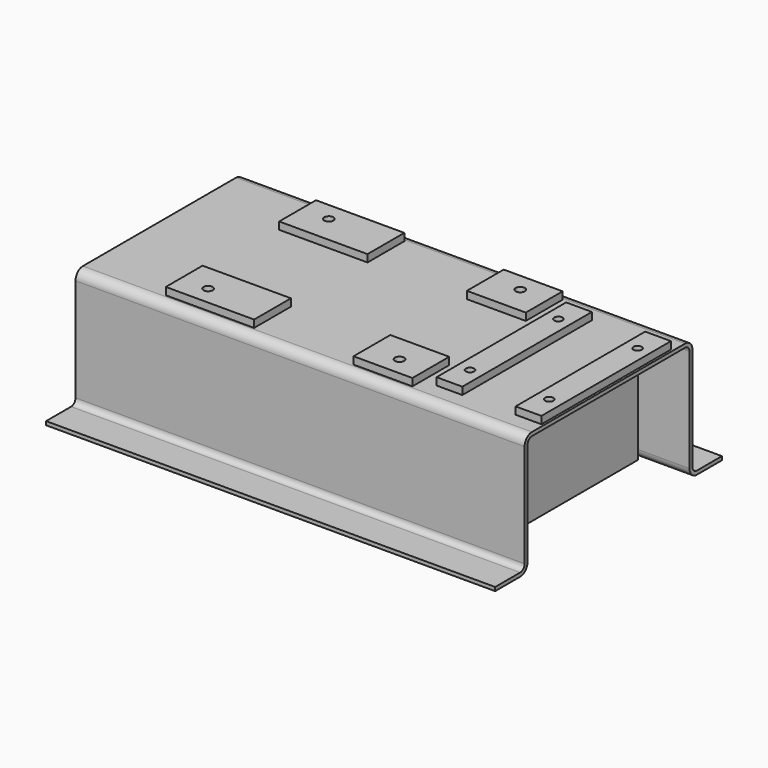
from build123d import *

# Parameters (mm, degrees)
F1_DEPTH = 774.7
F2_W     = 304.8
F2_H     = 158.75
F2_R     = 15.875
F2_W_2   = 203.2
F2_W_3   = 88.9
F2_H_2   = 558.8
F2_R_2   = 14.2875
F3_DEPTH = 25.4
F6_DEPTH = 12.7


with BuildPart() as f1:
    # F0 (on Right) → F1 (new body, symmetric)
    with BuildSketch(Plane.YZ):
        with BuildLine():
            Line((0, 209.55), (-330.2, 209.55))
            ThreePointArc((-330.2, 209.55), (-352.6506403027, 200.2506403027), (-361.95, 177.8))
            Line((-361.95, 177.8), (-361.95, -177.8))
            ThreePointArc((-361.95, -177.8), (-367.5296158184, -191.2703841816), (-381, -196.85))
            Line((-381, -196.85), (-488.95, -196.85))
            Line((-488.95, -196.85), (-488.95, -209.55))
            Line((-488.95, -209.55), (-381, -209.55))
            ThreePointArc((-381, -209.55), (-358.5493596973, -200.2506403027), (-349.25, -177.8))
            Line((-349.25, -177.8), (-349.25, 177.8))
            ThreePointArc((-349.25, 177.8), (-343.6703841816, 191.2703841816), (-330.2, 196.85))
            Line((-330.2, 196.85), (0, 196.85))
            Line((0, 196.85), (330.2, 196.85))
            ThreePointArc((330.2, 196.85), (343.6703841816, 191.2703841816), (349.25, 177.8))
            Line((349.25, 177.8), (349.25, -177.8))
            ThreePointArc((349.25, -177.8), (358.5493596973, -200.2506403027), (381, -209.55))
            Line((381, -209.55), (488.95, -209.55))
            Line((488.95, -209.55), (488.95, -196.85))
            Line((488.95, -196.85), (381, -196.85))
            ThreePointArc((381, -196.85), (367.5296158184, -191.2703841816), (361.95, -177.8))
            Line((361.95, -177.8), (361.95, 177.8))
            ThreePointArc((361.95, 177.8), (352.6506403027, 200.2506403027), (330.2, 209.55))
            Line((330.2, 209.55), (0, 209.55))
        make_face()
    extrude(amount=F1_DEPTH, both=True)

    # F2 (on face) → F3 (join)
    with BuildSketch(Plane.XY.offset(209.55)):
        with Locations((-341.376, -244.475)):
            Rectangle(F2_W, F2_H)
        with Locations((-398.526, -260.35)):
            Circle(F2_R, mode=Mode.SUBTRACT)
        with Locations((255.524, -244.475)):
            Rectangle(F2_W_2, F2_H)
        with Locations((261.874, -260.35)):
            Circle(F2_R, mode=Mode.SUBTRACT)
        with Locations((255.524, 244.475)):
            Rectangle(F2_W_2, F2_H)
        with Locations((261.874, 260.35)):
            Circle(F2_R, mode=Mode.SUBTRACT)
        with Locations((-341.376, 244.475)):
            Rectangle(F2_W, F2_H)
        with Locations((-398.526, 260.35)):
            Circle(F2_R, mode=Mode.SUBTRACT)
        with Locations((449.326, 0)):
            Rectangle(F2_W_3, F2_H_2)
        with Locations((449.072, -190.5)):
            Circle(F2_R_2, mode=Mode.SUBTRACT)
        with Locations((449.072, 190.5)):
            Circle(F2_R_2, mode=Mode.SUBTRACT)
        with Locations((722.122, 0)):
            Rectangle(F2_W_3, F2_H_2)
        with Locations((722.376, -190.5)):
            Circle(F2_R_2, mode=Mode.SUBTRACT)
        with Locations((722.376, 190.5)):
            Circle(F2_R_2, mode=Mode.SUBTRACT)
    extrude(amount=F3_DEPTH)

    # F5 (on offset) → F6 (join)
    with BuildSketch(Plane.YZ.offset(596.9)):
        Polygon((330.2, 196.85), (-330.2, 196.85), (-349.25, 177.8), (-349.25, -209.55), (349.25, -209.55), (349.25, 177.8), align=None)
    extrude(amount=-F6_DEPTH)


solid = f1.part
